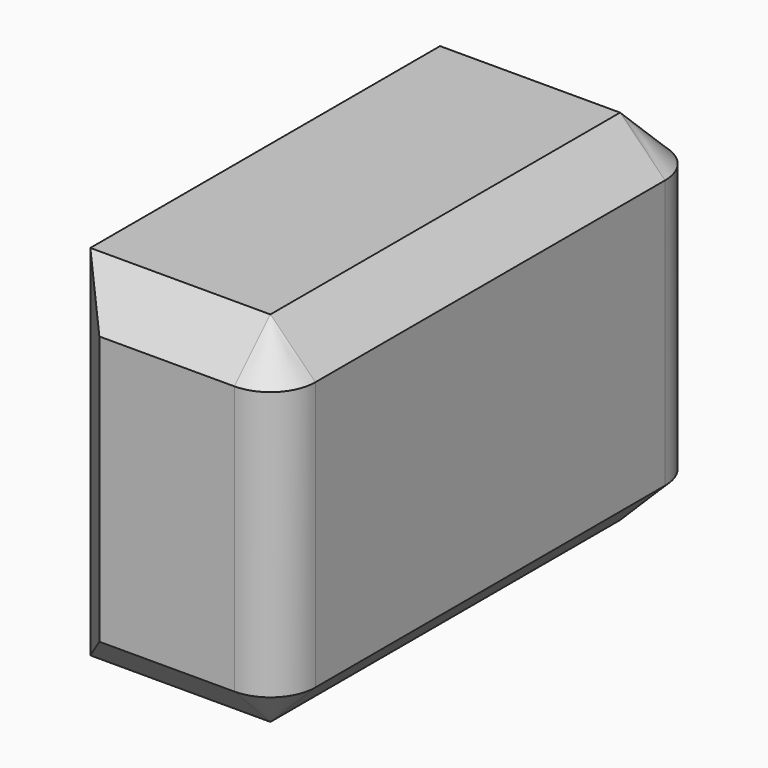
from build123d import *

# Parameters (mm, degrees)
F0_W     = 59.488162
F0_H     = 40.484803
F1_DEPTH = 25.4
F2_R     = 5.08
F3_SIZE  = 5.08


with BuildPart() as f1:
    # F0 (on Right) → F1 (new body)
    with BuildSketch(Plane.YZ):
        with Locations((2.245061, 2.255453)):
            Rectangle(F0_W, F0_H)
    extrude(amount=F1_DEPTH)

    # F2
    f2_edges = [f1.edges().sort_by_distance(p)[0] for p in [
        (25.4, -27.49902, 2.255454),
        (25.4, 31.989142, 2.255454),
    ]]
    fillet(f2_edges, radius=F2_R)

    # F3
    f3_edges = [f1.edges().sort_by_distance(p)[0] for p in [
        (10.16, -27.49902, 22.497855),
        (20.32, -27.49902, 2.255454),
        (0, -27.49902, 2.255454),
        (10.16, -27.49902, -17.986948),
    ]]
    chamfer(f3_edges, length=F3_SIZE)


solid = f1.part
